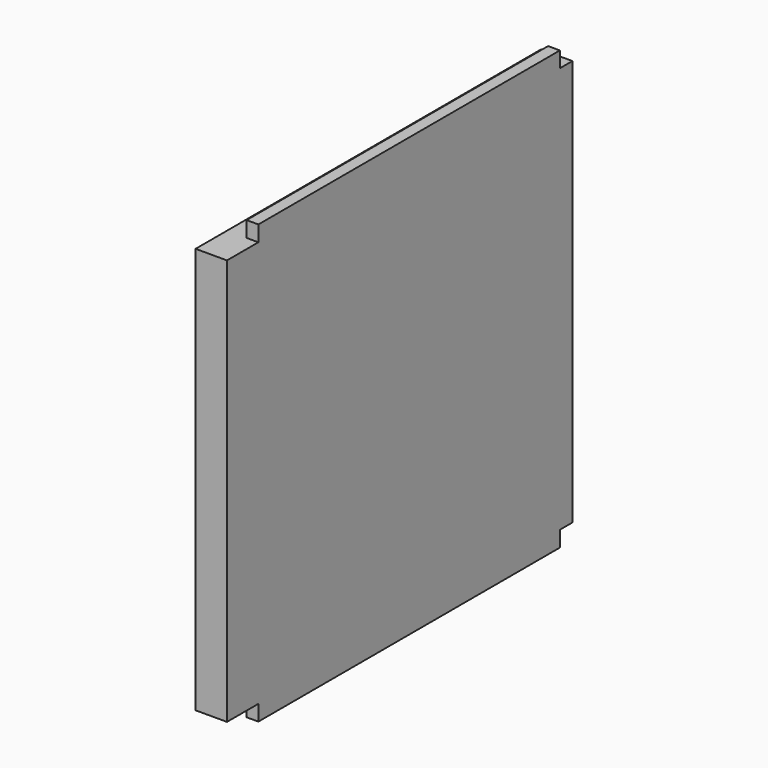
from build123d import *

# Parameters (mm, degrees)
F0_W     = 349.25
F0_H     = 328.6125
F1_DEPTH = 12.7
F2_W     = 9.525
F2_H     = 304.8
F3_DEPTH = 12.7
F4_W     = 9.525
F4_H     = 304.8
F5_DEPTH = 12.7


with BuildPart() as f1:
    # F0 (on Right) → F1 (new body, symmetric)
    with BuildSketch(Plane.YZ):
        Rectangle(F0_W, F0_H)
    extrude(amount=F1_DEPTH, both=True)

    # F2 (on face) → F3 (join)
    with BuildSketch(Plane.XY.offset(164.30625)):
        with Locations((7.9375, 9.525)):
            Rectangle(F2_W, F2_H)
    extrude(amount=F3_DEPTH)

    # F4 (on face) → F5 (join)
    with BuildSketch(Plane(origin=(0, 0, -164.30625), x_dir=(1, 0, 0), z_dir=(0, 0, -1))):
        with Locations((7.9375, -9.525)):
            Rectangle(F4_W, F4_H)
    extrude(amount=F5_DEPTH)


solid = f1.part
